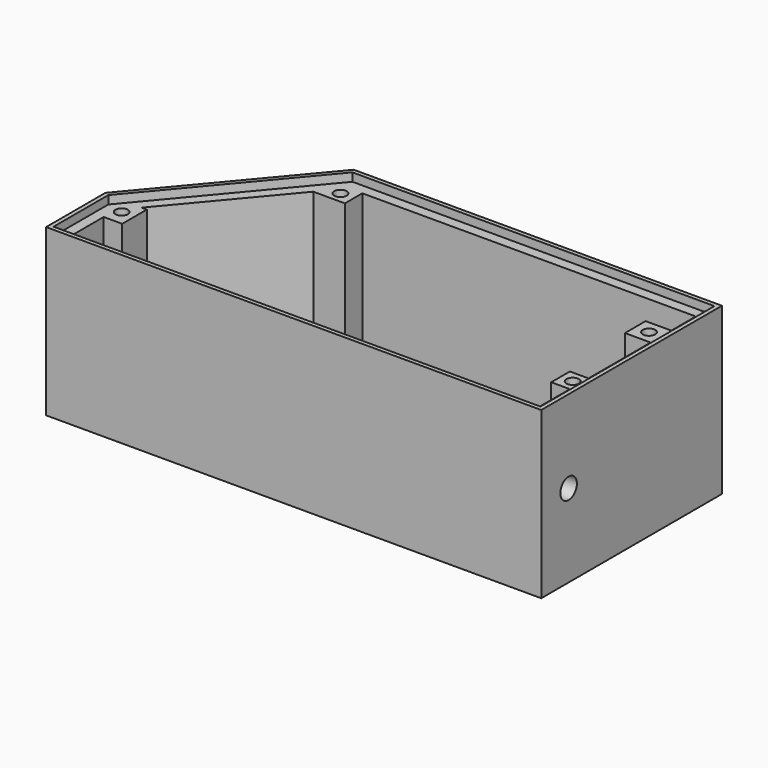
from build123d import *

# Parameters (mm, degrees)
F1_DEPTH = 72
F3_DEPTH = 4
F5_DEPTH = 4
F7_DEPTH = 25
F8_R     = 3
F9_DEPTH = 5.5


with BuildPart() as f1:
    # F0 (on Top) → F1 (new body)
    with BuildSketch(Plane.XY):
        Polygon((-232, 28.7712871801), (-232, 9), (-232, -7), (7, -7), (7, 102), (-170.6706311353, 102), align=None)
        with BuildLine():
            Line((0, 9), (0, 0))
            Line((0, 0), (-21.3304098297, 0))
            ThreePointArc((-21.3304098297, 0), (-22.567460882, -0.0826411216), (-23.8045119343, 0))
            Line((-23.8045119343, 0), (-39.7422893838, 0))
            ThreePointArc((-39.7422893838, 0), (-41.1674409876, -0.1098453274), (-42.5925925915, 0))
            Line((-42.5925925915, 0), (-59.7671166301, 0))
            Line((-59.7671166301, 0), (-78.3671166301, 0))
            Line((-78.3671166301, 0), (-96.9671166301, 0))
            Line((-96.9671166301, 0), (-115.5671166301, 0))
            Line((-115.5671166301, 0), (-134.1671166301, 0))
            Line((-134.1671166301, 0), (-152.7671166301, 0))
            Line((-152.7671166301, 0), (-171.3671166301, 0))
            Line((-171.3671166301, 0), (-189.9671166301, 0))
            Line((-189.9671166301, 0), (-208.5671166301, 0))
            Line((-208.5671166301, 0), (-225, 0))
            Line((-225, 0), (-225, 9))
            Line((-225, 9), (-225, 19.009443))
            Line((-225, 19.009443), (-216.0657793283, 19.009443))
            Line((-216.0657793283, 19.009443), (-216.0657793283, 33.8660545808))
            Line((-216.0657793283, 33.8660545808), (-218.6024326595, 33.8660545808))
            Line((-218.6024326595, 33.8660545808), (-176.2169181556, 84.4753585209))
            Line((-176.2169181556, 84.4753585209), (-160.9487113722, 84.4753585209))
            Line((-160.9487113722, 84.4753585209), (-160.9487113722, 95))
            Line((-160.9487113722, 95), (0, 95))
            Line((0, 95), (0, 80.24520114))
            Line((0, 80.24520114), (-12.4263259421, 80.2028560212))
            Line((-12.4263259421, 80.2028560212), (-12.3839236644, 67.7597565904))
            Line((-12.3839236644, 67.7597565904), (0, 67.7597565904))
            Line((0, 67.7597565904), (0, 30.28925322))
            Line((0, 30.28925322), (-9.0186540037, 30.28925322))
            Line((-9.0186540037, 30.28925322), (-9.0186540037, 19.0464295447))
            Line((-9.0186540037, 19.0464295447), (0, 19.0464295447))
            Line((0, 19.0464295447), (0, 9))
        make_face(mode=Mode.SUBTRACT)
    extrude(amount=F1_DEPTH)

    # F2 (on Top) → F3 (join)
    with BuildSketch(Plane.XY):
        Polygon((-170.6706311353, 102), (-232, 28.7712871801), (-232, -7), (7, -7), (7, 102), align=None)
    extrude(amount=-F3_DEPTH)

    # F4 (on face) → F5 (join)
    with BuildSketch(Plane.XY.offset(72)):
        Polygon((7, 102), (-170.6706311353, 102), (-232, 28.7712871801), (-232, -7), (7, -7), align=None)
        Polygon((-230, -5), (-230, 28.0444074988), (-169.7368749983, 100), (5, 100), (5, -5), align=None, mode=Mode.SUBTRACT)
    extrude(amount=F5_DEPTH)

    # F6 (on face) → F7 (cut)
    with BuildSketch(Plane.YZ.offset(7)):
        with BuildLine():
            Line((4.5232147723, 36), (14.5232147723, 36))
            ThreePointArc((14.5232147723, 36), (9.5232147723, 41), (4.5232147723, 36))
        make_face()
        with BuildLine():
            ThreePointArc((4.5232147723, 36), (9.5232147723, 31), (14.5232147723, 36))
            Line((14.5232147723, 36), (4.5232147723, 36))
        make_face()
    extrude(amount=-F7_DEPTH, mode=Mode.SUBTRACT)

    # F8 (on face) → F9 (cut)
    with BuildSketch(Plane.XY.offset(72)):
        with Locations((-167.3095971346, 89.7376792604)):
            Circle(F8_R)
        with Locations((-222.2577780485, 26.4377487904)):
            Circle(F8_R)
        with Locations((-5.7860915549, 73.9813063058)):
            Circle(F8_R)
        with Locations((-3.1610322185, 24.6678413823)):
            Circle(F8_R)
    extrude(amount=-F9_DEPTH, mode=Mode.SUBTRACT)


solid = f1.part
